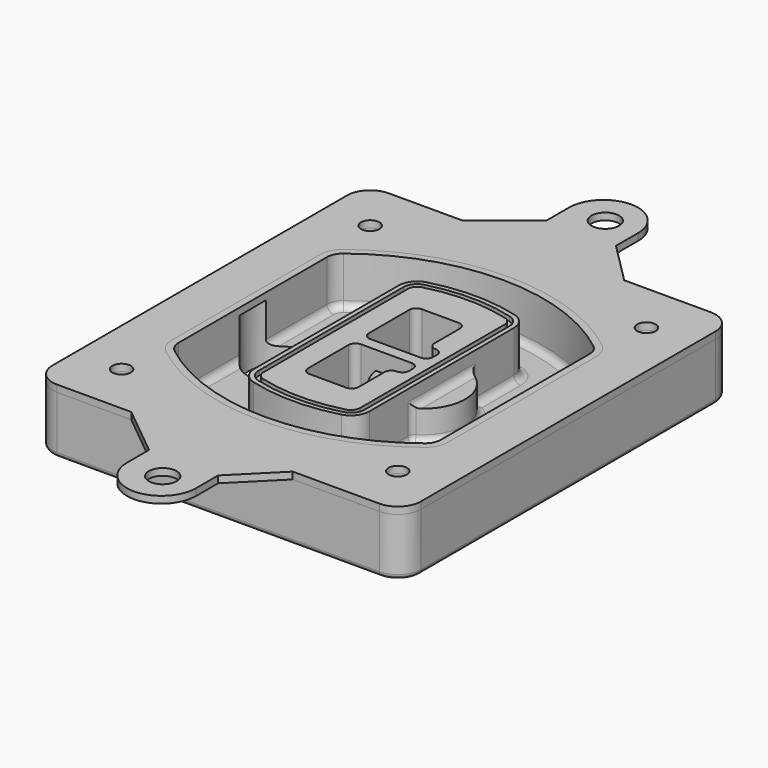
from build123d import *

# Parameters (mm, degrees)
F0_R      = 4
F1_DEPTH  = 25
F2_DEPTH  = 3
F3_DEPTH  = 18
F5_DEPTH  = 21
F6_DEPTH  = 2
F8_DEPTH  = 20
F9_DEPTH  = 16
F10_DEPTH = 25
F7_R      = 6
F7_R_2    = 4
F11_DEPTH = 6
F13_DEPTH = 9
F14_R     = 3
F15_R     = 2
F16_R     = 4
F16_R_2   = 6
F17_DEPTH = 3


with BuildPart() as f1:
    # F0 (on Top) → F1 (new body)
    with BuildSketch(Plane.XY):
        with BuildLine():
            ThreePointArc((-80, -80), (-77.0710678119, -87.0710678119), (-70, -90))
            Line((-70, -90), (70, -90))
            ThreePointArc((70, -90), (77.0710678119, -87.0710678119), (80, -80))
            Line((80, -80), (80, 80))
            ThreePointArc((80, 80), (77.0710678119, 87.0710678119), (70, 90))
            Line((70, 90), (-70, 90))
            ThreePointArc((-70, 90), (-77.0710678119, 87.0710678119), (-80, 80))
            Line((-80, 80), (-80, -80))
        make_face()
        with Locations((-60, -67.5)):
            Circle(F0_R, mode=Mode.SUBTRACT)
        with Locations((60, -67.5)):
            Circle(F0_R, mode=Mode.SUBTRACT)
        with Locations((-60, 67.5)):
            Circle(F0_R, mode=Mode.SUBTRACT)
        with BuildLine():
            ThreePointArc((-64, 40.2934422872), (-62.5820384798, 46.4328484224), (-58.6153846154, 51.3286200352))
            ThreePointArc((-58.6153846154, 51.3286200352), (0, 71.5), (58.6153846154, 51.3286200352))
            ThreePointArc((58.6153846154, 51.3286200352), (62.5820384798, 46.4328484224), (64, 40.2934422872))
            Line((64, 40.2934422872), (64, -40.2934422872))
            ThreePointArc((64, -40.2934422872), (62.5820384798, -46.4328484224), (58.6153846154, -51.3286200352))
            ThreePointArc((58.6153846154, -51.3286200352), (0, -71.5), (-58.6153846154, -51.3286200352))
            ThreePointArc((-58.6153846154, -51.3286200352), (-62.5820384798, -46.4328484224), (-64, -40.2934422872))
            Line((-64, -40.2934422872), (-64, 40.2934422872))
        make_face(mode=Mode.SUBTRACT)
        with Locations((60, 67.5)):
            Circle(F0_R, mode=Mode.SUBTRACT)
        with BuildLine():
            ThreePointArc((58.6153846154, 51.3286200352), (0, 71.5), (-58.6153846154, 51.3286200352))
            ThreePointArc((-58.6153846154, 51.3286200352), (-62.5820384798, 46.4328484224), (-64, 40.2934422872))
            Line((-64, 40.2934422872), (-64, -40.2934422872))
            ThreePointArc((-64, -40.2934422872), (-62.5820384798, -46.4328484224), (-58.6153846154, -51.3286200352))
            ThreePointArc((-58.6153846154, -51.3286200352), (0, -71.5), (58.6153846154, -51.3286200352))
            ThreePointArc((58.6153846154, -51.3286200352), (62.5820384798, -46.4328484224), (64, -40.2934422872))
            Line((64, -40.2934422872), (64, 40.2934422872))
            ThreePointArc((64, 40.2934422872), (62.5820384798, 46.4328484224), (58.6153846154, 51.3286200352))
        make_face()
        with BuildLine():
            Line((-60, -40.2934422872), (-60, 40.2934422872))
            ThreePointArc((-60, 40.2934422872), (-58.9871703427, 44.6787323838), (-56.1538461538, 48.1757121072))
            ThreePointArc((-56.1538461538, 48.1757121072), (0, 67.5), (56.1538461538, 48.1757121072))
            ThreePointArc((56.1538461538, 48.1757121072), (58.9871703427, 44.6787323838), (60, 40.2934422872))
            Line((60, 40.2934422872), (60, -40.2934422872))
            ThreePointArc((60, -40.2934422872), (58.9871703427, -44.6787323838), (56.1538461538, -48.1757121072))
            ThreePointArc((56.1538461538, -48.1757121072), (0, -67.5), (-56.1538461538, -48.1757121072))
            ThreePointArc((-56.1538461538, -48.1757121072), (-58.9871703427, -44.6787323838), (-60, -40.2934422872))
        make_face(mode=Mode.SUBTRACT)
        with BuildLine():
            ThreePointArc((-56.1538461538, 48.1757121072), (-58.9871703427, 44.6787323838), (-60, 40.2934422872))
            Line((-60, 40.2934422872), (-60, -40.2934422872))
            ThreePointArc((-60, -40.2934422872), (-58.9871703427, -44.6787323838), (-56.1538461538, -48.1757121072))
            ThreePointArc((-56.1538461538, -48.1757121072), (0, -67.5), (56.1538461538, -48.1757121072))
            ThreePointArc((56.1538461538, -48.1757121072), (58.9871703427, -44.6787323838), (60, -40.2934422872))
            Line((60, -40.2934422872), (60, 40.2934422872))
            ThreePointArc((60, 40.2934422872), (58.9871703427, 44.6787323838), (56.1538461538, 48.1757121072))
            ThreePointArc((56.1538461538, 48.1757121072), (0, 67.5), (-56.1538461538, 48.1757121072))
        make_face()
        with BuildLine():
            ThreePointArc((54.3076923077, 45.8110311612), (56.2910192399, 43.3631453548), (57, 40.2934422872))
            Line((57, 40.2934422872), (57, -40.2934422872))
            ThreePointArc((57, -40.2934422872), (56.2910192399, -43.3631453548), (54.3076923077, -45.8110311612))
            ThreePointArc((54.3076923077, -45.8110311612), (0, -64.5), (-54.3076923077, -45.8110311612))
            ThreePointArc((-54.3076923077, -45.8110311612), (-56.2910192399, -43.3631453548), (-57, -40.2934422872))
            Line((-57, -40.2934422872), (-57, 40.2934422872))
            ThreePointArc((-57, 40.2934422872), (-56.2910192399, 43.3631453548), (-54.3076923077, 45.8110311612))
            ThreePointArc((-54.3076923077, 45.8110311612), (0, 64.5), (54.3076923077, 45.8110311612))
        make_face(mode=Mode.SUBTRACT)
        with BuildLine():
            Line((57, -40.2934422872), (57, 40.2934422872))
            ThreePointArc((57, 40.2934422872), (56.2910192399, 43.3631453548), (54.3076923077, 45.8110311612))
            ThreePointArc((54.3076923077, 45.8110311612), (0, 64.5), (-54.3076923077, 45.8110311612))
            ThreePointArc((-54.3076923077, 45.8110311612), (-56.2910192399, 43.3631453548), (-57, 40.2934422872))
            Line((-57, 40.2934422872), (-57, -40.2934422872))
            ThreePointArc((-57, -40.2934422872), (-56.2910192399, -43.3631453548), (-54.3076923077, -45.8110311612))
            ThreePointArc((-54.3076923077, -45.8110311612), (0, -64.5), (54.3076923077, -45.8110311612))
            ThreePointArc((54.3076923077, -45.8110311612), (56.2910192399, -43.3631453548), (57, -40.2934422872))
        make_face()
    extrude(amount=-F1_DEPTH)

    # F0 (on Top) → F2 (join)
    with BuildSketch(Plane.XY):
        with BuildLine():
            ThreePointArc((-56.1538461538, 48.1757121072), (-58.9871703427, 44.6787323838), (-60, 40.2934422872))
            Line((-60, 40.2934422872), (-60, -40.2934422872))
            ThreePointArc((-60, -40.2934422872), (-58.9871703427, -44.6787323838), (-56.1538461538, -48.1757121072))
            ThreePointArc((-56.1538461538, -48.1757121072), (0, -67.5), (56.1538461538, -48.1757121072))
            ThreePointArc((56.1538461538, -48.1757121072), (58.9871703427, -44.6787323838), (60, -40.2934422872))
            Line((60, -40.2934422872), (60, 40.2934422872))
            ThreePointArc((60, 40.2934422872), (58.9871703427, 44.6787323838), (56.1538461538, 48.1757121072))
            ThreePointArc((56.1538461538, 48.1757121072), (0, 67.5), (-56.1538461538, 48.1757121072))
        make_face()
        with BuildLine():
            ThreePointArc((54.3076923077, 45.8110311612), (56.2910192399, 43.3631453548), (57, 40.2934422872))
            Line((57, 40.2934422872), (57, -40.2934422872))
            ThreePointArc((57, -40.2934422872), (56.2910192399, -43.3631453548), (54.3076923077, -45.8110311612))
            ThreePointArc((54.3076923077, -45.8110311612), (0, -64.5), (-54.3076923077, -45.8110311612))
            ThreePointArc((-54.3076923077, -45.8110311612), (-56.2910192399, -43.3631453548), (-57, -40.2934422872))
            Line((-57, -40.2934422872), (-57, 40.2934422872))
            ThreePointArc((-57, 40.2934422872), (-56.2910192399, 43.3631453548), (-54.3076923077, 45.8110311612))
            ThreePointArc((-54.3076923077, 45.8110311612), (0, 64.5), (54.3076923077, 45.8110311612))
        make_face(mode=Mode.SUBTRACT)
    extrude(amount=F2_DEPTH)

    # F0 (on Top) → F3 (cut)
    with BuildSketch(Plane.XY):
        with BuildLine():
            Line((57, -40.2934422872), (57, 40.2934422872))
            ThreePointArc((57, 40.2934422872), (56.2910192399, 43.3631453548), (54.3076923077, 45.8110311612))
            ThreePointArc((54.3076923077, 45.8110311612), (0, 64.5), (-54.3076923077, 45.8110311612))
            ThreePointArc((-54.3076923077, 45.8110311612), (-56.2910192399, 43.3631453548), (-57, 40.2934422872))
            Line((-57, 40.2934422872), (-57, -40.2934422872))
            ThreePointArc((-57, -40.2934422872), (-56.2910192399, -43.3631453548), (-54.3076923077, -45.8110311612))
            ThreePointArc((-54.3076923077, -45.8110311612), (0, -64.5), (54.3076923077, -45.8110311612))
            ThreePointArc((54.3076923077, -45.8110311612), (56.2910192399, -43.3631453548), (57, -40.2934422872))
        make_face()
    extrude(amount=-F3_DEPTH, mode=Mode.SUBTRACT)

    # F4 (on face) → F5 (join, through all)
    with BuildSketch(Plane.XY.offset(3)):
        with BuildLine():
            ThreePointArc((-25, -39.2465276821), (-23.3511545998, -44.1109737193), (-19.0842911877, -46.9702398883))
            ThreePointArc((-19.0842911877, -46.9702398883), (0, -49.5), (19.0842911877, -46.9702398883))
            ThreePointArc((19.0842911877, -46.9702398883), (23.3511545998, -44.1109737193), (25, -39.2465276821))
            Line((25, -39.2465276821), (25, 39.2465276821))
            ThreePointArc((25, 39.2465276821), (23.3511545998, 44.1109737193), (19.0842911877, 46.9702398883))
            ThreePointArc((19.0842911877, 46.9702398883), (0, 49.5), (-19.0842911877, 46.9702398883))
            ThreePointArc((-19.0842911877, 46.9702398883), (-23.3511545998, 44.1109737193), (-25, 39.2465276821))
            Line((-25, 39.2465276821), (-25, -39.2465276821))
        make_face()
        with BuildLine():
            ThreePointArc((18.5632183908, 45.0393118368), (21.7633659499, 42.89486221), (23, 39.2465276821))
            Line((23, 39.2465276821), (23, -39.2465276821))
            ThreePointArc((23, -39.2465276821), (21.7633659499, -42.89486221), (18.5632183908, -45.0393118368))
            ThreePointArc((18.5632183908, -45.0393118368), (0, -47.5), (-18.5632183908, -45.0393118368))
            ThreePointArc((-18.5632183908, -45.0393118368), (-21.7633659499, -42.89486221), (-23, -39.2465276821))
            Line((-23, -39.2465276821), (-23, 39.2465276821))
            ThreePointArc((-23, 39.2465276821), (-21.7633659499, 42.89486221), (-18.5632183908, 45.0393118368))
            ThreePointArc((-18.5632183908, 45.0393118368), (0, 47.5), (18.5632183908, 45.0393118368))
        make_face(mode=Mode.SUBTRACT)
        with BuildLine():
            Line((23, -39.2465276821), (23, 39.2465276821))
            ThreePointArc((23, 39.2465276821), (21.7633659499, 42.89486221), (18.5632183908, 45.0393118368))
            ThreePointArc((18.5632183908, 45.0393118368), (0, 47.5), (-18.5632183908, 45.0393118368))
            ThreePointArc((-18.5632183908, 45.0393118368), (-21.7633659499, 42.89486221), (-23, 39.2465276821))
            Line((-23, 39.2465276821), (-23, -39.2465276821))
            ThreePointArc((-23, -39.2465276821), (-21.7633659499, -42.89486221), (-18.5632183908, -45.0393118368))
            ThreePointArc((-18.5632183908, -45.0393118368), (0, -47.5), (18.5632183908, -45.0393118368))
            ThreePointArc((18.5632183908, -45.0393118368), (21.7633659499, -42.89486221), (23, -39.2465276821))
        make_face()
        with BuildLine():
            ThreePointArc((18.0421455939, 43.1083837852), (20.1755772999, 41.6787507007), (21, 39.2465276821))
            Line((21, 39.2465276821), (21, -39.2465276821))
            ThreePointArc((21, -39.2465276821), (20.1755772999, -41.6787507007), (18.0421455939, -43.1083837852))
            ThreePointArc((18.0421455939, -43.1083837852), (0, -45.5), (-18.0421455939, -43.1083837852))
            ThreePointArc((-18.0421455939, -43.1083837852), (-20.1755772999, -41.6787507007), (-21, -39.2465276821))
            Line((-21, -39.2465276821), (-21, 39.2465276821))
            ThreePointArc((-21, 39.2465276821), (-20.1755772999, 41.6787507007), (-18.0421455939, 43.1083837852))
            ThreePointArc((-18.0421455939, 43.1083837852), (0, 45.5), (18.0421455939, 43.1083837852))
        make_face(mode=Mode.SUBTRACT)
        with BuildLine():
            Line((21, -39.2465276821), (21, 39.2465276821))
            ThreePointArc((21, 39.2465276821), (20.1755772999, 41.6787507007), (18.0421455939, 43.1083837852))
            ThreePointArc((18.0421455939, 43.1083837852), (0, 45.5), (-18.0421455939, 43.1083837852))
            ThreePointArc((-18.0421455939, 43.1083837852), (-20.1755772999, 41.6787507007), (-21, 39.2465276821))
            Line((-21, 39.2465276821), (-21, -39.2465276821))
            ThreePointArc((-21, -39.2465276821), (-20.1755772999, -41.6787507007), (-18.0421455939, -43.1083837852))
            ThreePointArc((-18.0421455939, -43.1083837852), (0, -45.5), (18.0421455939, -43.1083837852))
            ThreePointArc((18.0421455939, -43.1083837852), (20.1755772999, -41.6787507007), (21, -39.2465276821))
        make_face()
        with BuildLine():
            Line((-8, -2.5), (14, -2.5))
            ThreePointArc((14, -2.5), (16.1213203436, -3.3786796564), (17, -5.5))
            Line((17, -5.5), (17, -7.5))
            ThreePointArc((17, -7.5), (16.1213203436, -9.6213203436), (14, -10.5))
            ThreePointArc((14, -10.5), (11.8786796564, -11.3786796564), (11, -13.5))
            Line((11, -13.5), (11, -27.5))
            ThreePointArc((11, -27.5), (10.1213203436, -29.6213203436), (8, -30.5))
            Line((8, -30.5), (-8, -30.5))
            ThreePointArc((-8, -30.5), (-10.1213203436, -29.6213203436), (-11, -27.5))
            Line((-11, -27.5), (-11, -5.5))
            ThreePointArc((-11, -5.5), (-10.1213203436, -3.3786796564), (-8, -2.5))
        make_face(mode=Mode.SUBTRACT)
        with BuildLine():
            ThreePointArc((-8, 2.5), (-10.1213203436, 3.3786796564), (-11, 5.5))
            Line((-11, 5.5), (-11, 27.5))
            ThreePointArc((-11, 27.5), (-10.1213203436, 29.6213203436), (-8, 30.5))
            Line((-8, 30.5), (8, 30.5))
            ThreePointArc((8, 30.5), (10.1213203436, 29.6213203436), (11, 27.5))
            Line((11, 27.5), (11, 13.5))
            ThreePointArc((11, 13.5), (11.8786796564, 11.3786796564), (14, 10.5))
            ThreePointArc((14, 10.5), (16.1213203436, 9.6213203436), (17, 7.5))
            Line((17, 7.5), (17, 5.5))
            ThreePointArc((17, 5.5), (16.1213203436, 3.3786796564), (14, 2.5))
            Line((14, 2.5), (-8, 2.5))
        make_face(mode=Mode.SUBTRACT)
    extrude(amount=-F5_DEPTH)

    # F4 (on face) → F6 (cut)
    with BuildSketch(Plane.XY.offset(3)):
        with BuildLine():
            Line((23, -39.2465276821), (23, 39.2465276821))
            ThreePointArc((23, 39.2465276821), (21.7633659499, 42.89486221), (18.5632183908, 45.0393118368))
            ThreePointArc((18.5632183908, 45.0393118368), (0, 47.5), (-18.5632183908, 45.0393118368))
            ThreePointArc((-18.5632183908, 45.0393118368), (-21.7633659499, 42.89486221), (-23, 39.2465276821))
            Line((-23, 39.2465276821), (-23, -39.2465276821))
            ThreePointArc((-23, -39.2465276821), (-21.7633659499, -42.89486221), (-18.5632183908, -45.0393118368))
            ThreePointArc((-18.5632183908, -45.0393118368), (0, -47.5), (18.5632183908, -45.0393118368))
            ThreePointArc((18.5632183908, -45.0393118368), (21.7633659499, -42.89486221), (23, -39.2465276821))
        make_face()
        with BuildLine():
            ThreePointArc((18.0421455939, 43.1083837852), (20.1755772999, 41.6787507007), (21, 39.2465276821))
            Line((21, 39.2465276821), (21, -39.2465276821))
            ThreePointArc((21, -39.2465276821), (20.1755772999, -41.6787507007), (18.0421455939, -43.1083837852))
            ThreePointArc((18.0421455939, -43.1083837852), (0, -45.5), (-18.0421455939, -43.1083837852))
            ThreePointArc((-18.0421455939, -43.1083837852), (-20.1755772999, -41.6787507007), (-21, -39.2465276821))
            Line((-21, -39.2465276821), (-21, 39.2465276821))
            ThreePointArc((-21, 39.2465276821), (-20.1755772999, 41.6787507007), (-18.0421455939, 43.1083837852))
            ThreePointArc((-18.0421455939, 43.1083837852), (0, 45.5), (18.0421455939, 43.1083837852))
        make_face(mode=Mode.SUBTRACT)
    extrude(amount=-F6_DEPTH, mode=Mode.SUBTRACT)

    # F7 (on face) → F8 (join)
    with BuildSketch(Plane(origin=(0, 0, -25), x_dir=(1, 0, 0), z_dir=(0, 0, -1))):
        with BuildLine():
            ThreePointArc((3.28842436, 0), (16.7567035675, 13.4682792075), (30.224982775, 0))
            Line((30.224982775, 0), (35.224982775, 0))
            ThreePointArc((35.224982775, 0), (16.7567035675, 18.4682792075), (-1.71157564, 0))
            Line((-1.71157564, 0), (3.28842436, 0))
        make_face()
        with BuildLine():
            Line((3.28842436, 0), (30.224982775, 0))
            ThreePointArc((30.224982775, 0), (16.7567035675, 13.4682792075), (3.28842436, 0))
        make_face()
        with BuildLine():
            ThreePointArc((3.28842436, 0), (16.7567035675, -13.4682792075), (30.224982775, 0))
            Line((30.224982775, 0), (3.28842436, 0))
        make_face()
        with BuildLine():
            Line((35.224982775, 0), (30.224982775, 0))
            ThreePointArc((30.224982775, 0), (16.7567035675, -13.4682792075), (3.28842436, 0))
            Line((3.28842436, 0), (-1.71157564, 0))
            ThreePointArc((-1.71157564, 0), (16.7567035675, -18.4682792075), (35.224982775, 0))
        make_face()
    extrude(amount=-F8_DEPTH)

    # F7 (on face) → F9 (cut)
    with BuildSketch(Plane(origin=(0, 0, -25), x_dir=(1, 0, 0), z_dir=(0, 0, -1))):
        with BuildLine():
            Line((3.28842436, 0), (30.224982775, 0))
            ThreePointArc((30.224982775, 0), (16.7567035675, 13.4682792075), (3.28842436, 0))
        make_face()
        with BuildLine():
            ThreePointArc((3.28842436, 0), (16.7567035675, -13.4682792075), (30.224982775, 0))
            Line((30.224982775, 0), (3.28842436, 0))
        make_face()
    extrude(amount=-F9_DEPTH, mode=Mode.SUBTRACT)

    # F7 (on face) → F10 (cut)
    with BuildSketch(Plane(origin=(0, 0, -25), x_dir=(1, 0, 0), z_dir=(0, 0, -1))):
        with BuildLine():
            Line((-59.0318229325, 0), (-32.0952645175, 0))
            ThreePointArc((-32.0952645175, 0), (-45.563543725, 13.4682792075), (-59.0318229325, 0))
        make_face()
        with BuildLine():
            ThreePointArc((-59.0318229325, 0), (-45.563543725, -13.4682792075), (-32.0952645175, 0))
            Line((-32.0952645175, 0), (-59.0318229325, 0))
        make_face()
    extrude(amount=-F10_DEPTH, mode=Mode.SUBTRACT)

    # F7 (on face) → F11 (cut)
    with BuildSketch(Plane(origin=(0, 0, -25), x_dir=(1, 0, 0), z_dir=(0, 0, -1))):
        with Locations((60, -67.5)):
            Circle(F7_R)
        with Locations((60, -67.5)):
            Circle(F7_R_2, mode=Mode.SUBTRACT)
        with Locations((60, -67.5)):
            Circle(F7_R)
        with Locations((60, -67.5)):
            Circle(F7_R_2, mode=Mode.SUBTRACT)
        with Locations((-60, -67.5)):
            Circle(F7_R)
        with Locations((-60, -67.5)):
            Circle(F7_R_2, mode=Mode.SUBTRACT)
        with Locations((-60, -67.5)):
            Circle(F7_R)
        with Locations((-60, -67.5)):
            Circle(F7_R_2, mode=Mode.SUBTRACT)
        with Locations((-60, 67.5)):
            Circle(F7_R)
        with Locations((-60, 67.5)):
            Circle(F7_R_2, mode=Mode.SUBTRACT)
        with Locations((-60, 67.5)):
            Circle(F7_R)
        with Locations((-60, 67.5)):
            Circle(F7_R_2, mode=Mode.SUBTRACT)
        with Locations((60, 67.5)):
            Circle(F7_R)
        with Locations((60, 67.5)):
            Circle(F7_R_2, mode=Mode.SUBTRACT)
        with Locations((60, 67.5)):
            Circle(F7_R)
        with Locations((60, 67.5)):
            Circle(F7_R_2, mode=Mode.SUBTRACT)
    extrude(amount=-F11_DEPTH, mode=Mode.SUBTRACT)

    # F12 (on face) → F13 (cut, through all)
    with BuildSketch(Plane(origin=(0, 0, -9), x_dir=(1, 0, 0), z_dir=(0, 0, -1))):
        with BuildLine():
            Line((11, 13.5), (11, 17.5481537753))
            ThreePointArc((11, 17.5481537753), (2.5696536419, 11.8239143813), (-1.5415842455, 2.5))
            Line((-1.5415842455, 2.5), (3.5224848595, 2.5))
            ThreePointArc((3.5224848595, 2.5), (6.1857188154, 8.3455872281), (11.2536447004, 12.2927168648))
            ThreePointArc((11.2536447004, 12.2927168648), (11.0640958889, 12.8831798879), (11, 13.5))
        make_face()
        with BuildLine():
            ThreePointArc((11.2536447004, -12.2927168648), (6.1857188154, -8.3455872281), (3.5224848595, -2.5))
            Line((3.5224848595, -2.5), (-1.5415842455, -2.5))
            ThreePointArc((-1.5415842455, -2.5), (2.5696536419, -11.8239143813), (11, -17.5481537753))
            Line((11, -17.5481537753), (11, -13.5))
            ThreePointArc((11, -13.5), (11.0640958889, -12.8831798879), (11.2536447004, -12.2927168648))
        make_face()
        with BuildLine():
            ThreePointArc((11.2536447004, 12.2927168648), (6.1857188154, 8.3455872281), (3.5224848595, 2.5))
            Line((3.5224848595, 2.5), (14, 2.5))
            ThreePointArc((14, 2.5), (16.1213203436, 3.3786796564), (17, 5.5))
            Line((17, 5.5), (17, 7.5))
            ThreePointArc((17, 7.5), (16.1213203436, 9.6213203436), (14, 10.5))
            ThreePointArc((14, 10.5), (12.3601599782, 10.9878446101), (11.2536447004, 12.2927168648))
        make_face()
        with BuildLine():
            Line((14, -2.5), (3.5224848595, -2.5))
            ThreePointArc((3.5224848595, -2.5), (6.1857188154, -8.3455872281), (11.2536447004, -12.2927168648))
            ThreePointArc((11.2536447004, -12.2927168648), (12.3601599782, -10.9878446101), (14, -10.5))
            ThreePointArc((14, -10.5), (16.1213203436, -9.6213203436), (17, -7.5))
            Line((17, -7.5), (17, -5.5))
            ThreePointArc((17, -5.5), (16.1213203436, -3.3786796564), (14, -2.5))
        make_face()
    extrude(amount=F13_DEPTH, mode=Mode.SUBTRACT)

    # F14
    f14_edges = [f1.edges().sort_by_distance(p)[0] for p in [
        (-57, -23.703476, -18),
        (-57, 23.703476, -18),
        (25, 0, -5),
        (25, 16.526506, -11.5),
        (25, -16.526506, -11.5),
        (25, -27.886517, -18),
        (35.224983, 0, -18),
    ]]
    fillet(f14_edges, radius=F14_R)

    # F15
    f15_edges = [f1.edges().sort_by_distance(p)[0] for p in [
        (0, -90, -25),
    ]]
    fillet(f15_edges, radius=F15_R)


with BuildPart() as f17:
    # F16 (on face) → F17 (new body, through all)
    with BuildSketch(Plane.XY):
        with BuildLine():
            Line((-37.7920046449, 90), (-70, 90))
            ThreePointArc((-70, 90), (-77.0710678119, 87.0710678119), (-80, 80))
            Line((-80, 80), (-80, -80))
            ThreePointArc((-80, -80), (-77.0710678119, -87.0710678119), (-70, -90))
            Line((-70, -90), (-37.7920046449, -90))
            Line((-37.7920046449, -90), (32.3520575345, -90))
            Line((32.3520575345, -90), (70, -90))
            ThreePointArc((70, -90), (77.0710678119, -87.0710678119), (80, -80))
            Line((80, -80), (80, 80))
            ThreePointArc((80, 80), (77.0710678119, 87.0710678119), (70, 90))
            Line((70, 90), (32.3520575345, 90))
            Line((32.3520575345, 90), (-37.7920046449, 90))
        make_face()
        with Locations((-60, -67.5)):
            Circle(F16_R, mode=Mode.SUBTRACT)
        with Locations((60, -67.5)):
            Circle(F16_R, mode=Mode.SUBTRACT)
        with Locations((-60, 67.5)):
            Circle(F16_R, mode=Mode.SUBTRACT)
        with BuildLine():
            ThreePointArc((-56.1538461538, 48.1757121072), (0, 67.5), (56.1538461538, 48.1757121072))
            ThreePointArc((56.1538461538, 48.1757121072), (58.9871703427, 44.6787323838), (60, 40.2934422872))
            Line((60, 40.2934422872), (60, -40.2934422872))
            ThreePointArc((60, -40.2934422872), (58.9871703427, -44.6787323838), (56.1538461538, -48.1757121072))
            ThreePointArc((56.1538461538, -48.1757121072), (0, -67.5), (-56.1538461538, -48.1757121072))
            ThreePointArc((-56.1538461538, -48.1757121072), (-58.9871703427, -44.6787323838), (-60, -40.2934422872))
            Line((-60, -40.2934422872), (-60, 40.2934422872))
            ThreePointArc((-60, 40.2934422872), (-58.9871703427, 44.6787323838), (-56.1538461538, 48.1757121072))
        make_face(mode=Mode.SUBTRACT)
        with Locations((60, 67.5)):
            Circle(F16_R, mode=Mode.SUBTRACT)
        with BuildLine():
            Line((-15.64710401, 108), (-37.7920046449, 90))
            Line((-37.7920046449, 90), (32.3520575345, 90))
            Line((32.3520575345, 90), (14.3520575345, 108))
            Line((14.3520575345, 108), (14.3520575345, 120))
            ThreePointArc((14.3520575345, 120), (-0.5686429295, 134.9997903847), (-15.64710401, 120.1585968557))
            Line((-15.64710401, 120.1585968557), (-15.64710401, 108))
        make_face()
        with Locations((0, 120.1585968557)):
            Circle(F16_R_2, mode=Mode.SUBTRACT)
        with BuildLine():
            Line((32.3520575345, -90), (-37.7920046449, -90))
            Line((-37.7920046449, -90), (-15.64710401, -108))
            Line((-15.64710401, -108), (-15.64710401, -120.1585968557))
            ThreePointArc((-15.64710401, -120.1585968557), (-0.5686429295, -134.9997903847), (14.3520575345, -120))
            Line((14.3520575345, -120), (14.3520575345, -108))
            Line((14.3520575345, -108), (32.3520575345, -90))
        make_face()
        with Locations((0, -120.1585968557)):
            Circle(F16_R_2, mode=Mode.SUBTRACT)
    extrude(amount=F17_DEPTH)


solid = Compound([f1.part, f17.part])
